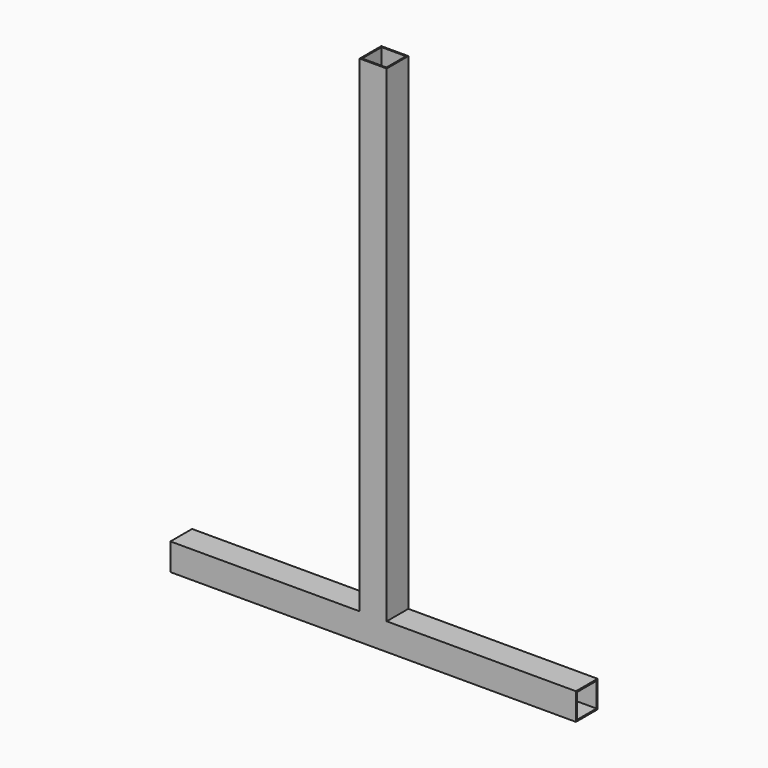
from build123d import *

# Parameters (mm, degrees)
F0_W     = 50.8
F0_H     = 914.4
F1_DEPTH = 50.8
F2_T     = -2.54


with BuildPart() as f1:
    # F0 (on Front) → F1 (new body)
    with BuildSketch(Plane.XZ):
        with Locations((25.4, 457.2)):
            Rectangle(F0_W, F0_H)
        Polygon((50.8, 0), (0, 0), (-355.6, 0), (-355.6, -50.8), (406.4, -50.8), (406.4, 0), align=None)
    extrude(amount=F1_DEPTH)

    # F2
    f2_openings = [f1.faces().sort_by_distance(p)[0] for p in [
        (25.4, -25.4, 914.4),
        (406.4, -25.4, -25.4),
        (-355.6, -25.4, -25.4),
    ]]
    offset(amount=F2_T, openings=f2_openings, kind=Kind.INTERSECTION)


solid = f1.part
